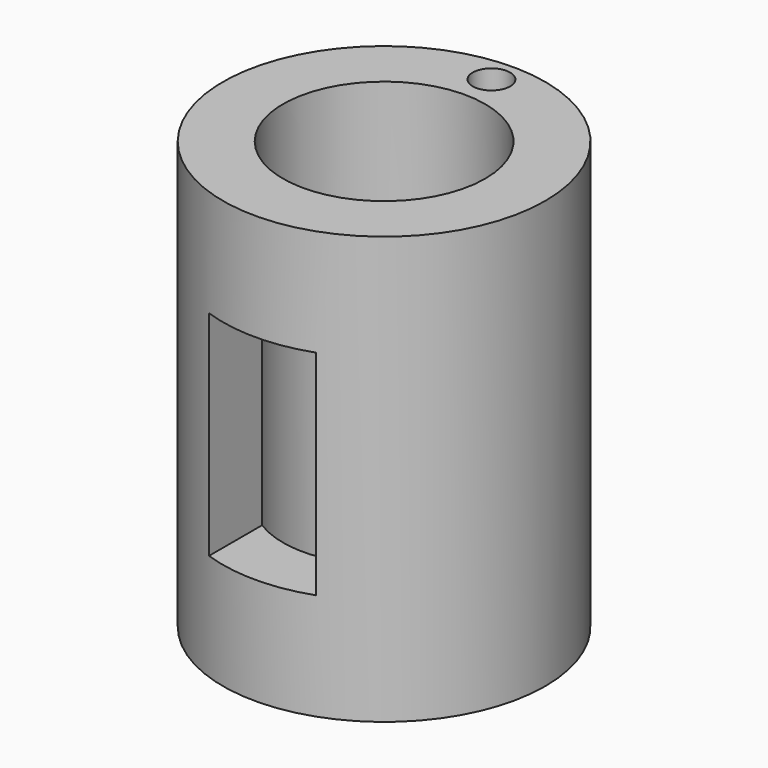
from build123d import *

# Parameters (mm, degrees)
F0_R          = 38.3309835302
F0_R_2        = 24.0387523189
F1_DEPTH      = 101.6
F2_W          = 25.4
F2_H          = 50.8
F3_DEPTH      = 38.3319835302
F3_DEPTH_BACK = 38.3319835302
F4_R          = 4.4552500981
F5_DEPTH      = 25.4


with BuildPart() as f1:
    # F0 (on Top) → F1 (new body)
    with BuildSketch(Plane.XY):
        Circle(F0_R)
        Circle(F0_R_2, mode=Mode.SUBTRACT)
    extrude(amount=F1_DEPTH)

    # F2 (on Front) → F3 (cut, two sides)
    with BuildSketch(Plane.XZ) as f3_sk:
        with Locations((0, 50.8)):
            Rectangle(F2_W, F2_H)
    extrude(amount=-F3_DEPTH, mode=Mode.SUBTRACT)
    extrude(f3_sk.sketch, amount=F3_DEPTH_BACK, mode=Mode.SUBTRACT)

    # F4 (on face) → F5 (cut, through all)
    with BuildSketch(Plane.XY.offset(101.6)):
        with Locations((0, 31.9115035236)):
            Circle(F4_R)
    extrude(amount=-F5_DEPTH, mode=Mode.SUBTRACT)


solid = f1.part
